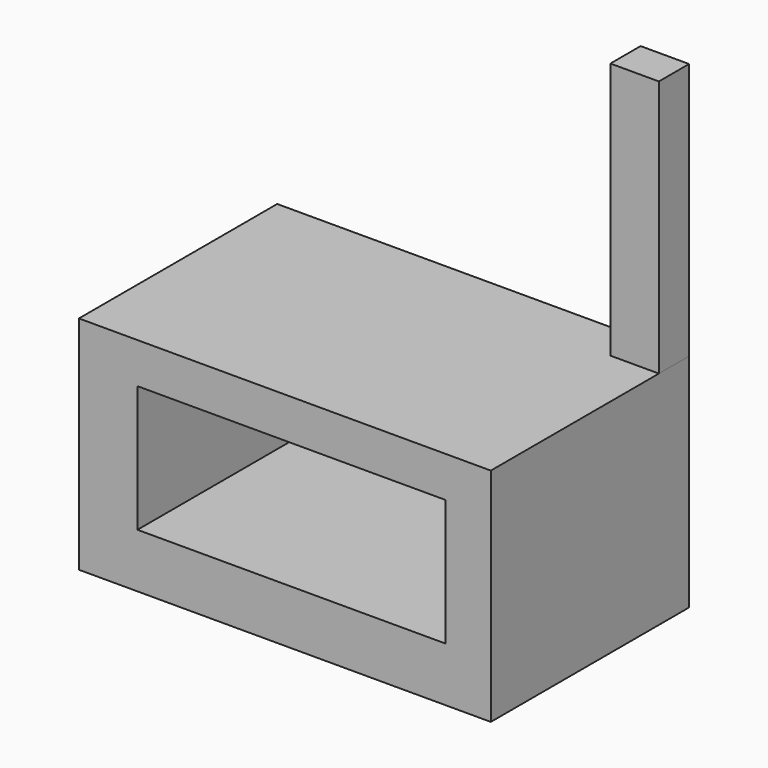
from build123d import *

# Parameters (mm, degrees)
F0_W     = 132.4301
F0_H     = 79.689402
F1_DEPTH = 71.134962
F3_W     = 98.986716
F3_H     = 40.646881
F4_DEPTH = 76.99018
F5_W     = 15.595557
F5_H     = 12.138546
F6_DEPTH = 82.682267


with BuildPart() as f1:
    # F0 (on Top) → F1 (new body)
    with BuildSketch(Plane.XY):
        with Locations((-2.111013, 0.088027)):
            Rectangle(F0_W, F0_H)
    extrude(amount=F1_DEPTH)

    # F3 (on face) → F4 (cut)
    with BuildSketch(Plane.XZ.offset(39.756674)):
        with Locations((0, 37.764803)):
            Rectangle(F3_W, F3_H)
    extrude(amount=-F4_DEPTH, mode=Mode.SUBTRACT)


with BuildPart() as f6:
    # F5 (on face) → F6 (new body)
    with BuildSketch(Plane.XY.offset(71.134962)):
        with Locations((56.306258, 33.863455)):
            Rectangle(F5_W, F5_H)
    extrude(amount=F6_DEPTH)


solid = Compound([f1.part, f6.part])
